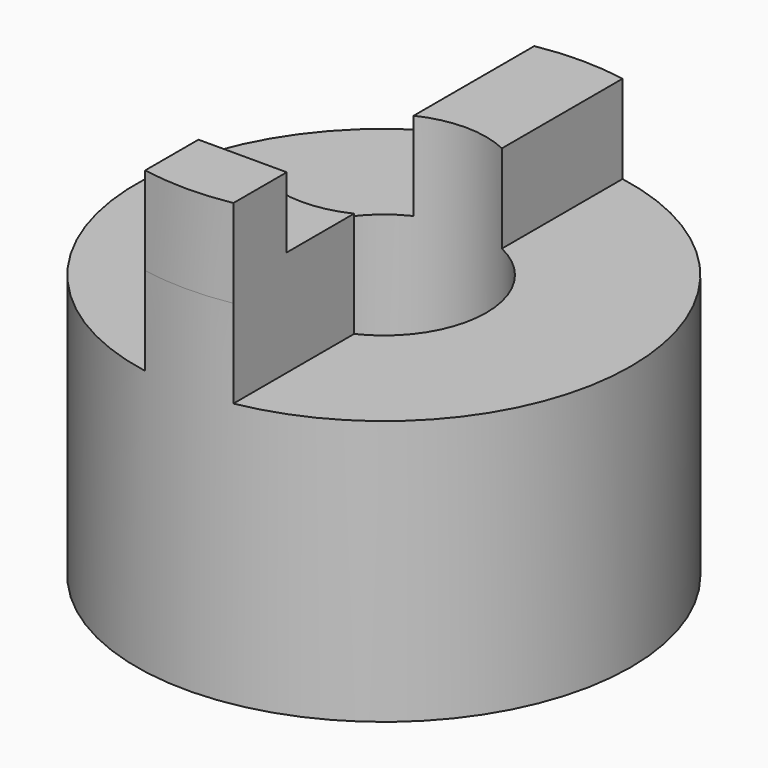
from build123d import *

# Parameters (mm, degrees)
F0_R     = 14
F1_DEPTH = 20
F2_R     = 5.8
F3_DEPTH = 20.001
F5_DEPTH = 5
F6_DEPTH = 5
F7_DEPTH = 5
F9_DEPTH = 4


with BuildPart() as f1:
    # F0 (on Top) → F1 (new body)
    with BuildSketch(Plane.XY):
        Circle(F0_R)
    extrude(amount=F1_DEPTH)

    # F2 (on face) → F3 (cut, through all)
    with BuildSketch(Plane(origin=(0, 0, 0), x_dir=(1, 0, 0), z_dir=(0, 0, -1))):
        Circle(F2_R)
    extrude(amount=-F3_DEPTH, mode=Mode.SUBTRACT)

    # F4 (on face) → F5 (cut)
    with BuildSketch(Plane.XY.offset(20)):
        with BuildLine():
            Line((-2.5, 5.2335456433), (-2.5, 13.774977314))
            ThreePointArc((-2.5, 13.774977314), (-14, 0), (-2.5, -13.774977314))
            Line((-2.5, -13.774977314), (-2.5, -5.2335456433))
            ThreePointArc((-2.5, -5.2335456433), (-5.8, 0), (-2.5, 5.2335456433))
        make_face()
    extrude(amount=-F5_DEPTH, mode=Mode.SUBTRACT)

    # F4 (on face) → F6 (cut)
    with BuildSketch(Plane.XY.offset(20)):
        with BuildLine():
            ThreePointArc((14, 0), (10.7470926301, 8.9721792225), (2.5, 13.774977314))
            Line((2.5, 13.774977314), (2.5, 5.2335456433))
            ThreePointArc((2.5, 5.2335456433), (4.9061186288, 3.0935416597), (5.8, 0))
            ThreePointArc((5.8, 0), (4.9061186288, -3.0935416597), (2.5, -5.2335456433))
            Line((2.5, -5.2335456433), (2.5, -13.774977314))
            ThreePointArc((2.5, -13.774977314), (10.7470926301, -8.9721792225), (14, 0))
        make_face()
    extrude(amount=-F6_DEPTH, mode=Mode.SUBTRACT)

    # F4 (on face) → F7 (join)
    with BuildSketch(Plane.XY.offset(20)):
        with BuildLine():
            Line((2.5, -13.774977314), (2.5, -5.2335456433))
            ThreePointArc((2.5, -5.2335456433), (0, -5.8), (-2.5, -5.2335456433))
            Line((-2.5, -5.2335456433), (-2.5, -13.774977314))
            ThreePointArc((-2.5, -13.774977314), (0, -14), (2.5, -13.774977314))
        make_face()
    extrude(amount=F7_DEPTH)

    # F8 (on face) → F9 (cut)
    with BuildSketch(Plane.XY.offset(25)):
        with BuildLine():
            Line((-2.5, -5.2335456433), (-2.5, -10))
            Line((-2.5, -10), (2.5, -10))
            Line((2.5, -10), (2.5, -5.2335456433))
            ThreePointArc((2.5, -5.2335456433), (0, -5.8), (-2.5, -5.2335456433))
        make_face()
    extrude(amount=-F9_DEPTH, mode=Mode.SUBTRACT)


solid = f1.part
